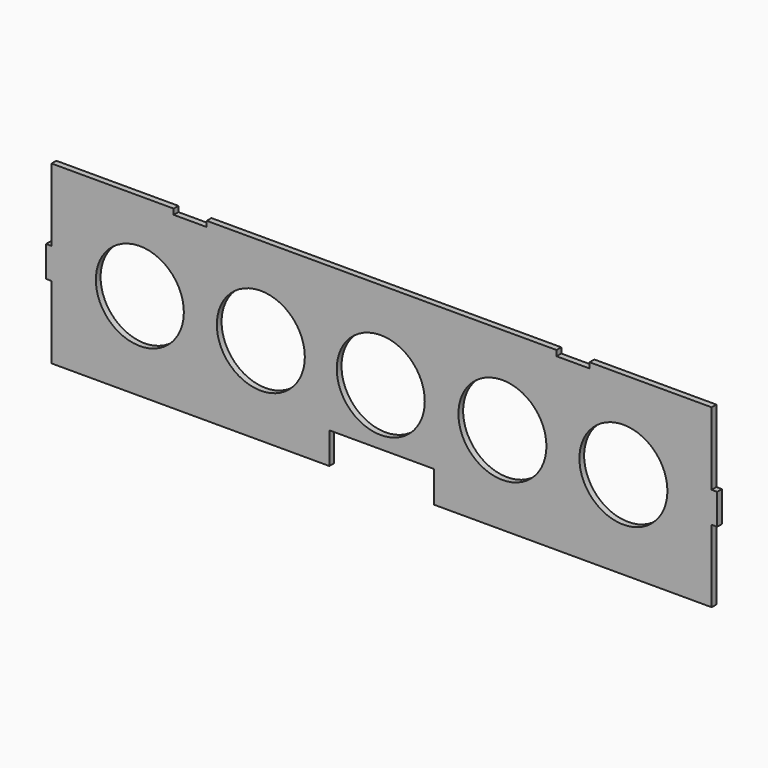
from build123d import *

# Parameters (mm, degrees)
F0_R     = 25.4
F1_DEPTH = 3.429


with BuildPart() as f1:
    # F0 (on Front) → F1 (new body)
    with BuildSketch(Plane.XZ):
        Polygon((205.224228, -4.022674), (205.224228, -7.197674), (186.174228, -7.197674), (186.174228, -4.022674), (-15.755772, -4.022674), (-15.755772, -7.197674), (-34.805772, -7.197674), (-34.805772, -4.022674), (-105.290772, -4.022674), (-105.290772, -45.932674), (-108.465772, -45.932674), (-108.465772, -63.712674), (-105.290772, -63.712674), (-105.290772, -105.622674), (55.046728, -105.622674), (55.046728, -87.461674), (115.371728, -87.461674), (115.371728, -105.622674), (275.709228, -105.622674), (275.709228, -63.712674), (278.884228, -63.712674), (278.884228, -45.932674), (275.709228, -45.932674), (275.709228, -4.022674), align=None)
        with Locations((84.713775, -54.844671)):
            Circle(F0_R, mode=Mode.SUBTRACT)
        with Locations((-54.350514, -54.822674)):
            Circle(F0_R, mode=Mode.SUBTRACT)
        with Locations((15.486786, -54.822674)):
            Circle(F0_R, mode=Mode.SUBTRACT)
        with Locations((154.931694, -54.822674)):
            Circle(F0_R, mode=Mode.SUBTRACT)
        with Locations((224.768994, -54.822674)):
            Circle(F0_R, mode=Mode.SUBTRACT)
    extrude(amount=F1_DEPTH)


solid = f1.part
